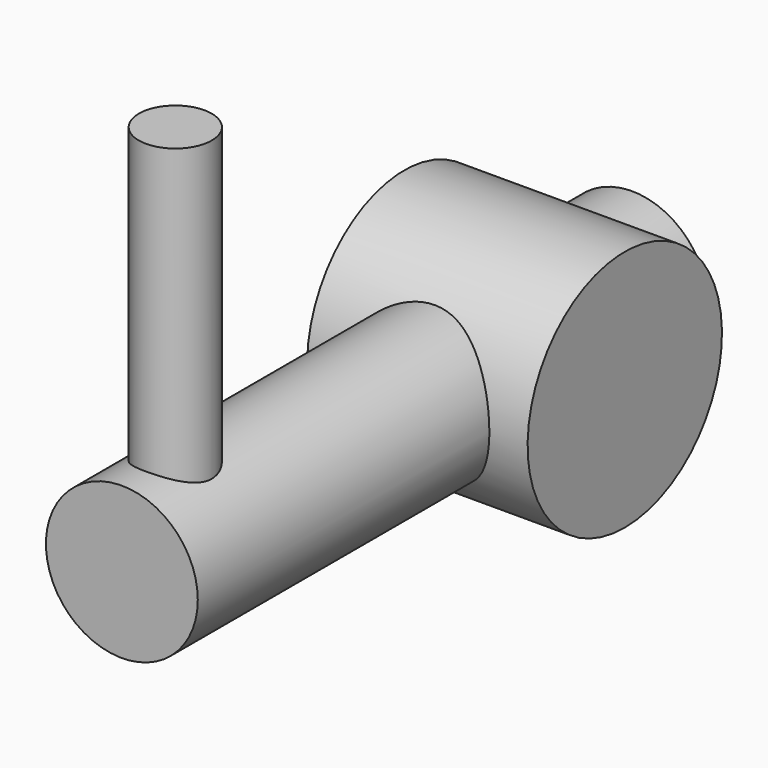
from build123d import *

# Parameters (mm, degrees)
CYLINDER012_R     = 2.5
CYLINDER012_DEPTH = 21
CYLINDER011_R     = 1.2
CYLINDER011_DEPTH = 12
CYLINDER010_R     = 4
CYLINDER010_DEPTH = 7.26


with BuildPart() as cylinder012:
    # Cylinder012 → Cylinder012 (new body)
    with BuildSketch(Plane(origin=(3.5, 5, 0), x_dir=(1, 0, 0), z_dir=(0, -1, 0))):
        Circle(CYLINDER012_R)
    extrude(amount=CYLINDER012_DEPTH)


with BuildPart() as cylinder011:
    # Cylinder011 → Cylinder011 (new body)
    with BuildSketch(Plane(origin=(3.5, -13.8, 0), x_dir=(1, 0, 0), z_dir=(0, 0, 1))):
        Circle(CYLINDER011_R)
    extrude(amount=CYLINDER011_DEPTH)


with BuildPart() as valve003:
    # Cylinder010 → Cylinder010 (new body)
    with BuildSketch(Plane(origin=(0, 0, 0), x_dir=(0, 0, -1), z_dir=(1, 0, 0))):
        Circle(CYLINDER010_R)
    extrude(amount=CYLINDER010_DEPTH)

    # Fusion003: union Cylinder012, Cylinder011
    add(cylinder012.part)
    add(cylinder011.part)


with BuildPart() as valve003_1:
    # Fusion003 placement: moved
    add(valve003.part.moved(Location((10, 0, 62.56))))


solid = valve003_1.part
